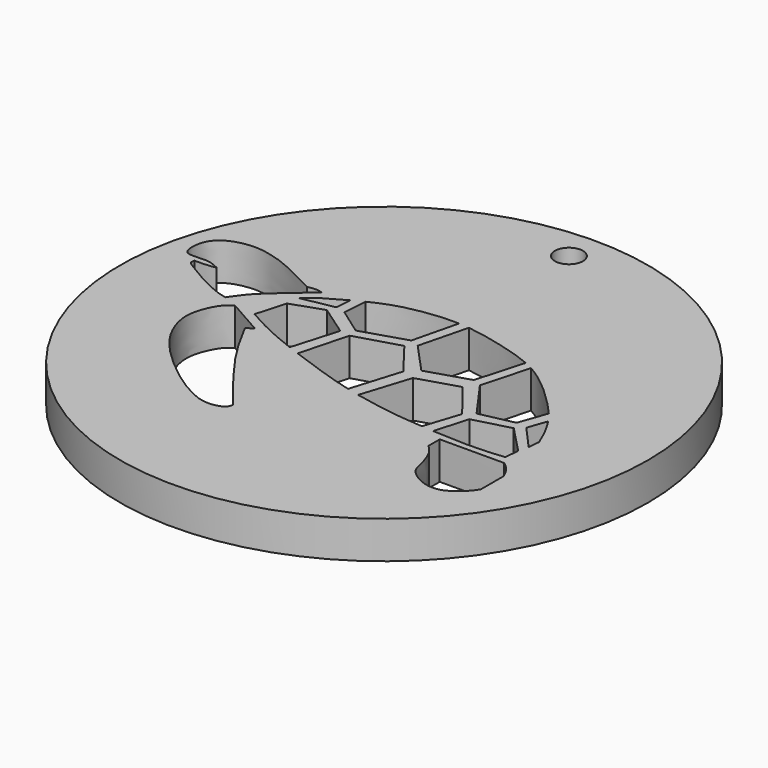
from build123d import *

# Parameters (mm, degrees)
F1_R     = 44.7842748313
F1_R_2   = 2.38125
F2_DEPTH = 6.35
F3_DEPTH = 6.35


with BuildPart() as f2:
    # F1 (on Top) → F2 (new body)
    with BuildSketch(Plane.XY):
        with Locations((-13.1898317486, 3.732789075)):
            Circle(F1_R)
        with Locations((-13.1898317486, 42.944039075)):
            Circle(F1_R_2, mode=Mode.SUBTRACT)
    extrude(amount=F2_DEPTH)

    # F0 (on Top) → F3 (cut)
    with BuildSketch(Plane.XY):
        with BuildLine():
            add(Edge.make_bspline(
                [(-12.4636225999, 18.7310151137), (-12.700836517, 18.7418877894), (-14.7135863035, 18.8023957248), (-18.7603399294, 18.3845679597), (-22.775974145, 17.3923678376), (-25.2862051987, 16.2435268296), (-26.0264929384, 15.8794540912)],
                knots=[0.6141005824, 0.6141005824, 0.6141005824, 0.6141005824, 0.6254855246, 0.7099381095, 0.7925903309, 0.8286226548, 0.8286226548, 0.8286226548, 0.8286226548], degree=3))
            Line((-26.0264929384, 15.8794540912), (-26.3334475458, 11.7495246232))
            Line((-26.3334475458, 11.7495246232), (-21.893137177, 8.5887544849))
            Line((-21.893137177, 8.5887544849), (-14.3556036479, 10.9565657624))
            Line((-14.3556036479, 10.9565657624), (-12.4636225999, 18.7310151137))
        make_face()
        with BuildLine():
            add(Edge.make_bspline(
                [(17.0761212754, -1.2330010545), (16.7565687163, -0.4098702464), (16.0841440727, 1.1584941418), (14.9301006836, 3.2251558684), (14.3014379785, 4.1789165057)],
                knots=[0, 0, 0, 0, 0.0598110604, 0.1186804231, 0.1186804231, 0.1186804231, 0.1186804231], degree=3))
            Line((14.3014379785, 4.1789165057), (13.1734283641, 0.945114065))
            Line((13.1734283641, 0.945114065), (16.8822035193, -3.2017137855))
            Line((16.8822035193, -3.2017137855), (17.0761212754, -1.2330010545))
        make_face()
        with BuildLine():
            add(Edge.make_bspline(
                [(12.9573335188, 5.9873126243), (12.4171771372, 6.6347228027), (10.8672510982, 8.290991133), (7.8508623493, 11.2981513086), (4.7171014761, 13.7171177928), (2.9755457903, 14.6763748975)],
                knots=[0.1586257044, 0.1586257044, 0.1586257044, 0.1586257044, 0.2046754286, 0.2841137082, 0.3678161589, 0.3678161589, 0.3678161589, 0.3678161589], degree=3))
            Line((2.9755457903, 14.6763748975), (0.778891387, 6.5971535568))
            Line((0.778891387, 6.5971535568), (5.4848841392, 0))
            Line((5.4848841392, 0), (11.2836286426, 1.2413795339))
            Line((11.2836286426, 1.2413795339), (12.9573335188, 5.9873126243))
        make_face()
        with BuildLine():
            add(Edge.make_bspline(
                [(1.504048135, 15.4042947127), (-0.0766035801, 16.1048318034), (-3.5615202087, 17.1547327217), (-7.4874623555, 18.0932850112), (-9.89481672, 18.4878328234), (-10.683314516, 18.5819561221)],
                knots=[0.3909411161, 0.3909411161, 0.3909411161, 0.3909411161, 0.4642583123, 0.5460985201, 0.5851294693, 0.5851294693, 0.5851294693, 0.5851294693], degree=3))
            Line((-10.683314516, 18.5819561221), (-12.7623995619, 10.3316202048))
            Line((-12.7623995619, 10.3316202048), (-7.9200800361, 5.0423189286))
            Line((-7.9200800361, 5.0423189286), (-0.8055971672, 7.2772346657))
            Line((-0.8055971672, 7.2772346657), (1.504048135, 15.4042947127))
        make_face()
        with BuildLine():
            Line((-28.0327834189, 12.2094918042), (-27.881822642, 14.9205854165))
            add(Edge.make_bspline(
                [(-27.881822642, 14.9205854165), (-28.2235984259, 14.7368686239), (-29.707609051, 13.9252516802), (-31.5766590749, 12.8684910171), (-32.9867531182, 11.6730302258), (-33.608547909, 11.1504288348)],
                knots=[0.8599178563, 0.8599178563, 0.8599178563, 0.8599178563, 0.8781747617, 0.9425347357, 1, 1, 1, 1], degree=3))
            Line((-33.608547909, 11.1504288348), (-28.0327834189, 12.2094918042))
        make_face()
        with BuildLine():
            add(Edge.make_bspline(
                [(-35.3008805327, 3.8896822618), (-33.9704748288, 3.1064963082), (-31.1387424935, 1.6503241949), (-28.353403972, 0.4057732276), (-26.2797724128, -0.4034163963), (-25.728418345, -0.6138060248)],
                knots=[0, 0, 0, 0, 0.1053304793, 0.2061480666, 0.2404097116, 0.2404097116, 0.2404097116, 0.2404097116], degree=3))
            Line((-25.728418345, -0.6138060248), (-23.4248191118, 7.2388863191))
            Line((-23.4248191118, 7.2388863191), (-28.5499040037, 10.8002331108))
            Line((-28.5499040037, 10.8002331108), (-33.8448248804, 8.9644929394))
            Line((-33.8448248804, 8.9644929394), (-35.3008805327, 3.8896822618))
        make_face()
        with BuildLine():
            add(Edge.make_bspline(
                [(-23.7994689588, -1.334122404), (-22.7970479228, -1.7014796604), (-19.0825350613, -3.0299135458), (-15.1942067235, -4.3505276851), (-12.2387969281, -5.1150762315)],
                knots=[0.2786134922, 0.2786134922, 0.2786134922, 0.2786134922, 0.3359614616, 0.4813572535, 0.4813572535, 0.4813572535, 0.4813572535], degree=3))
            Line((-12.2387969281, -5.1150762315), (-9.6320642252, 3.3620366375))
            Line((-9.6320642252, 3.3620366375), (-14.1047621146, 9.1740069911))
            Line((-14.1047621146, 9.1740069911), (-21.6079887096, 6.9390815697))
            Line((-21.6079887096, 6.9390815697), (-23.7994689588, -1.334122404))
        make_face()
        with BuildLine():
            add(Edge.make_bspline(
                [(-10.1074330979, -5.6301461927), (-7.8838890977, -6.1321072555), (-3.3049014366, -6.9491400303), (-0.2649070352, -7.1988283349), (2.0166522907, -7.3652342676), (2.113120385, -7.3722353946)],
                knots=[0.516031649, 0.516031649, 0.516031649, 0.516031649, 0.6242815929, 0.7409915354, 0.7460827745, 0.7460827745, 0.7460827745, 0.7460827745], degree=3))
            Line((2.113120385, -7.3722353946), (4.0888668499, -1.2989036668))
            Line((4.0888668499, -1.2989036668), (-0.7256831978, 4.7784783483))
            Line((-0.7256831978, 4.7784783483), (-7.4739452921, 2.6869120148))
            Line((-7.4739452921, 2.6869120148), (-10.1074330979, -5.6301461927))
        make_face()
        with BuildLine():
            Line((5.7529720574, -1.8757634103), (4.1284853727, -7.5115655787))
            add(Edge.make_bspline(
                [(4.1284853727, -7.5115655787), (6.5097684242, -7.665945718), (11.7629659517, -7.9219873243), (15.0828316296, -7.4917859764), (16.24019522, -7.3943839049)],
                knots=[0.7794160343, 0.7794160343, 0.7794160343, 0.7794160343, 0.8920010571, 1, 1, 1, 1], degree=3))
            Line((16.24019522, -7.3943839049), (16.5163930506, -4.9484283663))
            Line((16.5163930506, -4.9484283663), (11.9589660317, -0.2040943073))
            Line((11.9589660317, -0.2040943073), (5.7529720574, -1.8757634103))
        make_face()
        with BuildLine():
            Line((-32.6550118625, 0.6874210667), (-38.9135852456, 4.2410623282))
            add(Edge.make_bspline(
                [(-38.9135852456, 4.2410623282), (-39.3112517031, 3.9451621348), (-40.1742754867, 3.3029935543), (-41.2613500364, 1.4791367195), (-42.321971058, -1.5317468472), (-41.6663887017, -5.2598861304), (-39.4879042834, -9.3338699432), (-35.3735468054, -13.5125766697), (-30.905416529, -17.0785709311), (-26.7597420463, -19.4785196652), (-24.0905644833, -20.0856459639), (-21.5592049478, -19.4493333003), (-21.3372703329, -18.5647019099), (-21.2457757443, -18.2000044733)],
                knots=[0, 0, 0, 0, 0.0623738462, 0.1353649817, 0.2247745052, 0.3217333621, 0.4299962373, 0.5528484965, 0.6758370187, 0.7855399675, 0.8694778278, 0.9461910326, 1, 1, 1, 1], degree=3))
            add(Edge.make_bspline(
                [(-33.8080152869, 0), (-32.9830579575, -1.529225689), (-31.283836878, -4.8000216074), (-27.8309857684, -9.9220057064), (-23.7650458822, -15.1256570893), (-21.9541675402, -17.3470273404), (-21.2457757443, -18.2000044733)],
                knots=[0, 0, 0, 0, 0.2468029362, 0.5150634413, 0.7907795189, 1, 1, 1, 1], degree=3))
            Line((-33.8080152869, 0), (-32.6550118625, 0.6874210667))
        make_face()
        with BuildLine():
            add(Edge.make_bspline(
                [(6.3007003628, -8.8277459145), (7.8622200727, -8.8299373726), (11.1763723681, -8.8345884992), (15.1169332851, -8.8096251255), (17.2008313239, -8.7964236736)],
                knots=[0, 0, 0, 0, 0.4711671555, 1, 1, 1, 1], degree=3))
            Line((6.3007003628, -8.8277459145), (6.3007003628, -11.2082343549))
            add(Edge.make_bspline(
                [(6.3007003628, -11.2082343549), (6.7014254454, -11.6066824346), (7.5303912132, -12.430989231), (8.312055252, -14.2660054753), (8.8388055864, -16.0812743842), (9.1199230788, -17.7821529484), (10.9590739375, -19.409445893), (13.4163914328, -20.3949251118), (15.9619796747, -20.1824186853), (18.3522101245, -18.2781604176), (19.0985659245, -17.2861146766), (19.5186752826, -16.6269782931)],
                knots=[0, 0, 0, 0, 0.0988968998, 0.205226452, 0.309314373, 0.4063223813, 0.5217111764, 0.6441062328, 0.76274352, 0.8910493003, 1, 1, 1, 1], degree=3))
            Line((19.5186752826, -16.6269782931), (19.5186752826, -11.8033559993))
            add(Edge.make_bspline(
                [(17.2008313239, -8.7964236736), (17.6881593659, -9.1290143111), (18.843677078, -10.1380285193), (19.1551034946, -11.1190344132), (19.5186752826, -11.8033559993)],
                knots=[0, 0, 0, 0, 0.5061571176, 1, 1, 1, 1], degree=3))
        make_face()
        with BuildLine():
            add(Edge.make_bspline(
                [(-41.3643307984, 5.2348920144), (-41.8961382705, 5.3688752267), (-43.1634102836, 5.6881508746), (-46.3568318469, 7.131410852), (-48.4357546764, 8.4162333897), (-50.1900228416, 9.471143643), (-51.2728830223, 10.1160479526), (-51.1712652645, 10.6662919797), (-51.1262714863, 10.9099261463)],
                knots=[0, 0, 0, 0, 0.1659730689, 0.3955059607, 0.5923499062, 0.7685248693, 0.8975086548, 1, 1, 1, 1], degree=3))
            add(Edge.make_bspline(
                [(-41.3643307984, 5.2348920144), (-40.743739466, 6.1427040293), (-39.4030800525, 8.1038444125), (-35.922884108, 11.1489637646), (-33.4653668396, 13.2623235425), (-32.2129242122, 14.339370653)],
                knots=[0, 0, 0, 0, 0.297071345, 0.6417612918, 1, 1, 1, 1], degree=3))
            add(Edge.make_bspline(
                [(-32.2129242122, 14.339370653), (-32.6279933844, 14.4347967242), (-33.4674072, 14.6277813345), (-34.3364117984, 14.4362131524), (-34.7757153213, 14.339370653)],
                knots=[0, 0, 0, 0, 0.4944750307, 1, 1, 1, 1], degree=3))
            add(Edge.make_bspline(
                [(-34.7757153213, 14.339370653), (-35.5755514931, 14.7305640489), (-37.3100615282, 15.5934233103), (-40.7301505565, 17.4461191305), (-44.1269962605, 18.5882966714), (-47.4736340278, 19.1687837987), (-50.632913896, 18.4977406021), (-52.4341181464, 17.4397636174), (-53.8428950663, 15.604166228), (-53.8950291683, 12.2393863425), (-53.0032276042, 12.0052395986), (-52.6827611029, 11.893581599)],
                knots=[0, 0, 0, 0, 0.1129134194, 0.2458879424, 0.3743292003, 0.4985841452, 0.6180626356, 0.713486169, 0.8159699873, 0.9320745971, 1, 1, 1, 1], degree=3))
            add(Edge.make_bspline(
                [(-52.6827611029, 11.893581599), (-52.2312250377, 11.8819870556), (-51.1564145101, 11.8524438825), (-49.4733675486, 12.0759187766), (-48.1360060292, 11.4560814996), (-47.5398749113, 11.1761651933)],
                knots=[0, 0, 0, 0, 0.3077409135, 0.6363146276, 1, 1, 1, 1], degree=3))
            add(Edge.make_bspline(
                [(-47.5398749113, 11.1761651933), (-47.9360821494, 11.0971082287), (-48.8595913218, 10.912836401), (-50.3024393349, 10.9109838877), (-51.1262714863, 10.9099261463)],
                knots=[0, 0, 0, 0, 0.4290236089, 1, 1, 1, 1], degree=3))
        make_face()
    extrude(amount=F3_DEPTH, mode=Mode.SUBTRACT)


solid = f2.part
